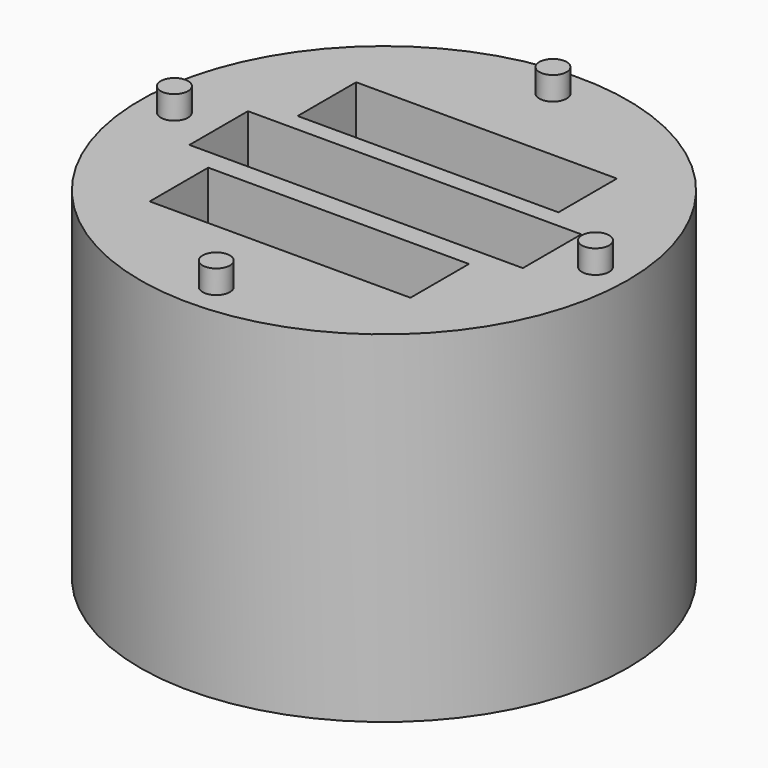
from build123d import *

# Parameters (mm, degrees)
F0_R     = 15.875
F1_DEPTH = 22.225
F3_R     = 0.889
F5_DEPTH = 23.749
F9_W     = 21.712904
F9_H     = 4.7625
F7_DEPTH = 22.225
F6_W     = 16.982072
F6_H     = 4.7625
F8_DEPTH = 22.225


with BuildPart() as f1:
    # F0 (on Top) → F1 (new body)
    with BuildSketch(Plane.XY):
        Circle(F0_R)
    extrude(amount=F1_DEPTH)

    # F3 (on face) → F5 (join)
    with BuildSketch(Plane(origin=(0, 0, 0), x_dir=(1, 0, 0), z_dir=(0, 0, -1))):
        with Locations((0, 13.652203)):
            Circle(F3_R)
        with Locations((-13.659894, -0.015021)):
            Circle(F3_R)
        with Locations((0.062219, -13.682245)):
            Circle(F3_R)
        with Locations((13.674476, -0.124876)):
            Circle(F3_R)
    extrude(amount=-F5_DEPTH)

    # F9 (on face) → F7 (cut)
    with BuildSketch(Plane.XY.offset(22.225)):
        with Locations((0.014928, 0.097281)):
            Rectangle(F9_W, F9_H)
    extrude(amount=-F7_DEPTH, mode=Mode.SUBTRACT)

    # F6 (on face) → F8 (cut)
    with BuildSketch(Plane.XY.offset(22.225)):
        with Locations((-0.042667, 6.022512)):
            Rectangle(F6_W, F6_H)
        with Locations((-0.042667, -6.022512)):
            Rectangle(F6_W, F6_H)
    extrude(amount=-F8_DEPTH, mode=Mode.SUBTRACT)


solid = f1.part
